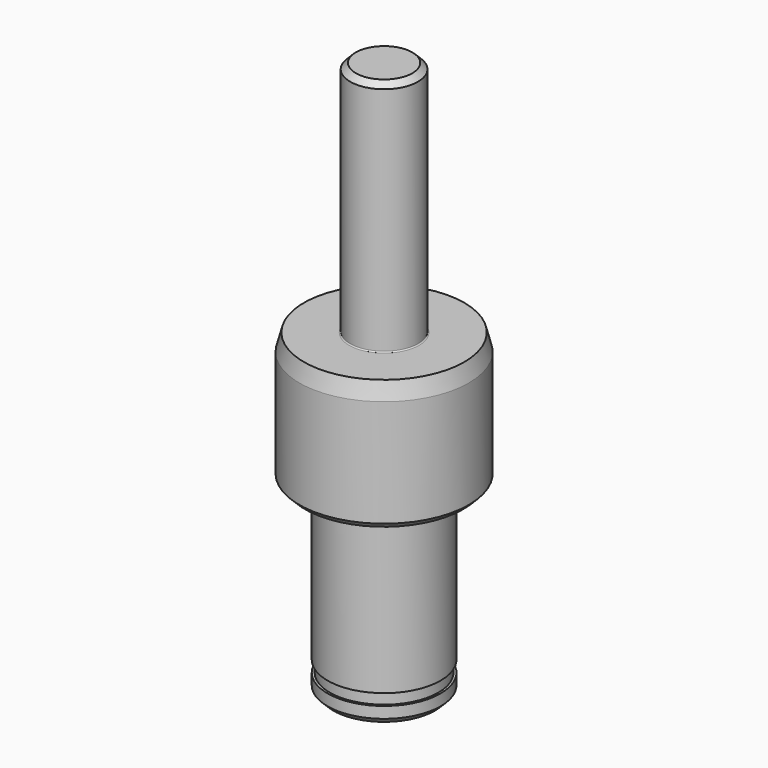
from build123d import *

# Parameters (mm, degrees)
F2_SIZE  = 0.5
F3_R     = 0.1
F4_SIZE2 = 0.4019237886
F4_SIZE  = 1.5


with BuildPart() as f1:
    # F0 (on Front) → F1 (revolve)
    with BuildSketch(Plane.XZ):
        Polygon((3, 32.5), (0, 32.5), (0, -16.5), (5, -16.5), (5, -15), (4.8, -15), (4.8, -14), (5, -14), (5, 0), (7.5, 0), (7.5, 11.5), (3, 11.5), align=None)
    revolve(axis=Axis((0, 0, -4.8274807632), (0, 0, -1)))

    # F2
    f2_edges = [f1.edges().sort_by_distance(p)[0] for p in [
        (-5, 0, -16.5),
        (-3, 0, 32.5),
        (-7.5, 0, 0),
    ]]
    chamfer(f2_edges, length=F2_SIZE)

    # F3
    f3_edges = [f1.edges().sort_by_distance(p)[0] for p in [
        (-5, 0, 0),
        (-3, 0, 11.5),
    ]]
    fillet(f3_edges, radius=F3_R)

    # F4
    f4_edges = [f1.edges().sort_by_distance(p)[0] for p in [
        (-7.5, 0, 11.5),
    ]]
    f4_side = f1.faces().sort_by_distance((-7.5, 0, 6))[0]
    chamfer(f4_edges, length=F4_SIZE, length2=F4_SIZE2, reference=f4_side)


solid = f1.part
